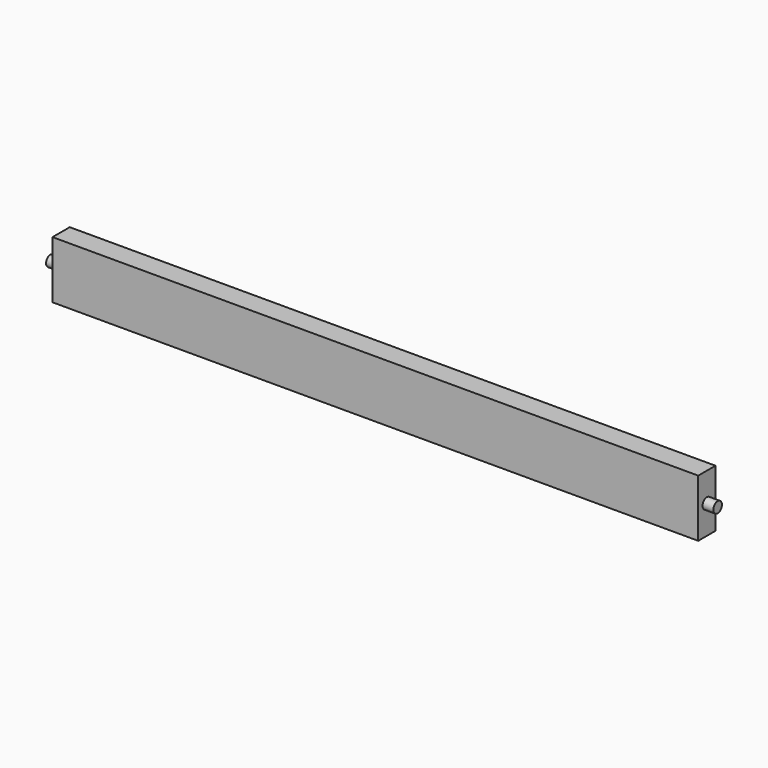
from build123d import *

# Parameters (mm, degrees)
F0_W     = 19.05
F0_H     = 50.8
F1_DEPTH = 295.275
F3_W     = 73.66158
F3_H     = 70.153892
F3_R     = 4.7625
F4_DEPTH = 9.526
F6_W     = 59.882906
F6_H     = 61.81458
F6_R     = 4.7625
F7_DEPTH = 9.525


with BuildPart() as f1:
    # F0 (on Right) → F1 (new body, symmetric)
    with BuildSketch(Plane.YZ):
        Rectangle(F0_W, F0_H)
    extrude(amount=F1_DEPTH, both=True)

    # F3 (on offset) → F4 (cut, through all)
    with BuildSketch(Plane.YZ.offset(285.75)):
        Rectangle(F3_W, F3_H)
        Circle(F3_R, mode=Mode.SUBTRACT)
    extrude(amount=F4_DEPTH, mode=Mode.SUBTRACT)

    # F6 (on offset) → F7 (cut)
    with BuildSketch(Plane.YZ.offset(-285.75)):
        Rectangle(F6_W, F6_H)
        Circle(F6_R, mode=Mode.SUBTRACT)
    extrude(amount=-F7_DEPTH, mode=Mode.SUBTRACT)


solid = f1.part
